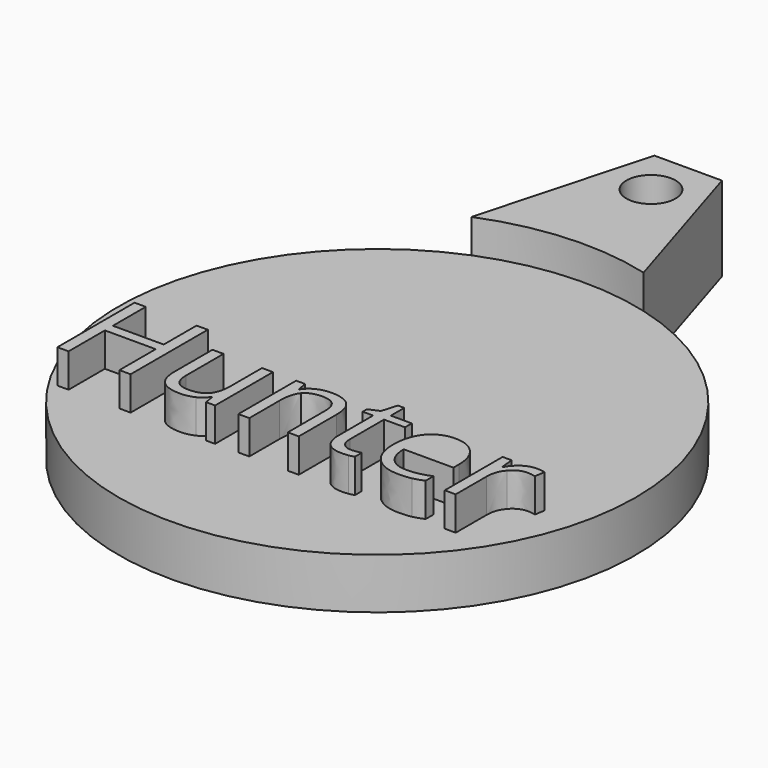
from build123d import *

# Parameters (mm, degrees)
F1_DEPTH = 12.7
F3_DEPTH = 5.08
F2_R     = 3.6923904974
F4_DEPTH = 12.701


with BuildPart() as f1:
    # F0 (on Top) → F1 (new body)
    with BuildSketch(Plane.XY):
        with BuildLine():
            Line((-54.1907071126, 81.808431102), (-61.2093408165, 56.2272694019))
            ThreePointArc((-61.2093408165, 56.2272694019), (-44.1142917545, -18.5841968693), (-36.5910920494, 57.7859390103))
            Line((-36.5910920494, 57.7859390103), (-44.0307071126, 81.808431102))
            Line((-44.0307071126, 81.808431102), (-54.1907071126, 81.808431102))
        make_face()
    extrude(amount=F1_DEPTH)

    # F2 (on face) → F3 (cut)
    with BuildSketch(Plane.XY.offset(12.7)):
        with BuildLine():
            ThreePointArc((-61.2093408165, 56.2272694019), (-68.2756243995, -12.0384858735), (-7.695419858, 20.2134059267))
            ThreePointArc((-7.695419858, 20.2134059267), (-15.7547342949, 43.9128527226), (-36.5910920494, 57.7859390103))
            ThreePointArc((-36.5910920494, 57.7859390103), (-49.0271224706, 59.0110087227), (-61.2093408165, 56.2272694019))
        make_face()
        with BuildLine():
            Line((-63.8565910506, 10.8681354841), (-62.1906724727, 10.8681354841))
            Line((-62.1906724727, 10.8681354841), (-62.1906724727, 3.817333427))
            add(Edge.make_bspline(
                [(-62.1906724727, 3.817333427), (-62.1906724727, 2.4877717429), (-61.5861820173, 1.8340970248)],
                knots=[0, 0, 0, 1, 1, 1], degree=2))
            add(Edge.make_bspline(
                [(-61.5861820173, 1.8340970248), (-60.9816915619, 1.1804223066), (-59.693381195, 1.1804223066)],
                knots=[0, 0, 0, 1, 1, 1], degree=2))
            add(Edge.make_bspline(
                [(-59.693381195, 1.1804223066), (-57.9862113, 1.1804223066), (-57.1992630956, 2.1117501211)],
                knots=[0, 0, 0, 1, 1, 1], degree=2))
            add(Edge.make_bspline(
                [(-57.1992630956, 2.1117501211), (-56.4123148912, 3.0430779355), (-56.4123148912, 5.1564146457)],
                knots=[0, 0, 0, 1, 1, 1], degree=2))
            Line((-56.4123148912, 5.1564146457), (-56.4123148912, 10.8681354841))
            Line((-56.4123148912, 10.8681354841), (-54.7654353828, 10.8681354841))
            Line((-54.7654353828, 10.8681354841), (-54.7654353828, 0))
            Line((-54.7654353828, 0), (-56.1235556711, 0))
            Line((-56.1235556711, 0), (-56.3615440393, 1.4564888138))
            Line((-56.3615440393, 1.4564888138), (-56.4503930302, 1.4564888138))
            add(Edge.make_bspline(
                [(-56.4503930302, 1.4564888138), (-56.9549283709, 0.6536747182), (-57.8529378138, 0.2268822444)],
                knots=[0, 0, 0, 1, 1, 1], degree=2))
            add(Edge.make_bspline(
                [(-57.8529378138, 0.2268822444), (-58.7509472567, -0.1999102293), (-59.9028109591, -0.1999102293)],
                knots=[0, 0, 0, 1, 1, 1], degree=2))
            add(Edge.make_bspline(
                [(-59.9028109591, -0.1999102293), (-61.8860473613, -0.1999102293), (-62.8713192059, 0.742523709)],
                knots=[0, 0, 0, 1, 1, 1], degree=2))
            add(Edge.make_bspline(
                [(-62.8713192059, 0.742523709), (-63.8565910506, 1.6849576473), (-63.8565910506, 3.7570430403)],
                knots=[0, 0, 0, 1, 1, 1], degree=2))
            Line((-63.8565910506, 3.7570430403), (-63.8565910506, 10.8681354841))
        make_face(mode=Mode.SUBTRACT)
        with BuildLine():
            Line((-42.1901300037, 0), (-43.8370095121, 0))
            Line((-43.8370095121, 0), (-43.8370095121, 7.0317629877))
            add(Edge.make_bspline(
                [(-43.8370095121, 7.0317629877), (-43.8370095121, 8.3581514935), (-44.4414999675, 9.0134128008)],
                knots=[0, 0, 0, 1, 1, 1], degree=2))
            add(Edge.make_bspline(
                [(-44.4414999675, 9.0134128008), (-45.0459904229, 9.668674108), (-46.337473968, 9.668674108)],
                knots=[0, 0, 0, 1, 1, 1], degree=2))
            add(Edge.make_bspline(
                [(-46.337473968, 9.668674108), (-48.0414706848, 9.668674108), (-48.8347652457, 8.7468658283)],
                knots=[0, 0, 0, 1, 1, 1], degree=2))
            add(Edge.make_bspline(
                [(-48.8347652457, 8.7468658283), (-49.6280598066, 7.8250575485), (-49.6280598066, 5.7022013036)],
                knots=[0, 0, 0, 1, 1, 1], degree=2))
            Line((-49.6280598066, 5.7022013036), (-49.6280598066, 0))
            Line((-49.6280598066, 0), (-51.274939315, 0))
            Line((-51.274939315, 0), (-51.274939315, 10.8681354841))
            Line((-51.274939315, 10.8681354841), (-49.9358580962, 10.8681354841))
            Line((-49.9358580962, 10.8681354841), (-49.6693111237, 9.3799148879))
            Line((-49.6693111237, 9.3799148879), (-49.5899816676, 9.3799148879))
            add(Edge.make_bspline(
                [(-49.5899816676, 9.3799148879), (-49.0822731487, 10.1827289835), (-48.1699844037, 10.6253873485)],
                knots=[0, 0, 0, 1, 1, 1], degree=2))
            add(Edge.make_bspline(
                [(-48.1699844037, 10.6253873485), (-47.2576956586, 11.0680457134), (-46.1375637387, 11.0680457134)],
                knots=[0, 0, 0, 1, 1, 1], degree=2))
            add(Edge.make_bspline(
                [(-46.1375637387, 11.0680457134), (-44.1733664059, 11.0680457134), (-43.1817482048, 10.1208520077)],
                knots=[0, 0, 0, 1, 1, 1], degree=2))
            add(Edge.make_bspline(
                [(-43.1817482048, 10.1208520077), (-42.1901300037, 9.1736583021), (-42.1901300037, 7.0888801961)],
                knots=[0, 0, 0, 1, 1, 1], degree=2))
            Line((-42.1901300037, 7.0888801961), (-42.1901300037, 0))
        make_face(mode=Mode.SUBTRACT)
        Polygon((-67.4676678917, 14.4982513947), (-67.4676678917, 0), (-69.152625539, 0), (-69.152625539, 6.8223332236), (-76.7904655712, 6.8223332236), (-76.7904655712, 0), (-78.4754232185, 0), (-78.4754232185, 14.4982513947), (-76.7904655712, 14.4982513947), (-76.7904655712, 8.3295928893), (-69.152625539, 8.3295928893), (-69.152625539, 14.4982513947), align=None, mode=Mode.SUBTRACT)
        with BuildLine():
            add(Edge.make_bspline(
                [(-25.1723750837, -0.0349049607), (-25.9498037533, -0.1999102293), (-27.0508966038, -0.1999102293)],
                knots=[0, 0, 0, 1, 1, 1], degree=2))
            add(Edge.make_bspline(
                [(-27.0508966038, -0.1999102293), (-29.4593388907, -0.1999102293), (-30.8539507287, 1.2692712974)],
                knots=[0, 0, 0, 1, 1, 1], degree=2))
            add(Edge.make_bspline(
                [(-30.8539507287, 1.2692712974), (-32.2485625667, 2.7384528242), (-32.2485625667, 5.3436321621)],
                knots=[0, 0, 0, 1, 1, 1], degree=2))
            add(Edge.make_bspline(
                [(-32.2485625667, 5.3436321621), (-32.2485625667, 7.974196926), (-30.9539058434, 9.5211213197)],
                knots=[0, 0, 0, 1, 1, 1], degree=2))
            add(Edge.make_bspline(
                [(-30.9539058434, 9.5211213197), (-29.65924912, 11.0680457134), (-27.4761024885, 11.0680457134)],
                knots=[0, 0, 0, 1, 1, 1], degree=2))
            add(Edge.make_bspline(
                [(-27.4761024885, 11.0680457134), (-25.4357488779, 11.0680457134), (-24.2458070366, 9.7242047273)],
                knots=[0, 0, 0, 1, 1, 1], degree=2))
            add(Edge.make_bspline(
                [(-24.2458070366, 9.7242047273), (-23.0558651952, 8.3803637412), (-23.0558651952, 6.1781780402)],
                knots=[0, 0, 0, 1, 1, 1], degree=2))
            Line((-23.0558651952, 6.1781780402), (-23.0558651952, 5.1373755763))
            Line((-23.0558651952, 5.1373755763), (-30.5413926717, 5.1373755763))
            add(Edge.make_bspline(
                [(-30.5413926717, 5.1373755763), (-30.4906218198, 3.2239490954), (-29.5735733074, 2.2323308943)],
                knots=[0, 0, 0, 1, 1, 1], degree=2))
            add(Edge.make_bspline(
                [(-29.5735733074, 2.2323308943), (-28.6565247951, 1.2407126932), (-26.9906062172, 1.2407126932)],
                knots=[0, 0, 0, 1, 1, 1], degree=2))
            add(Edge.make_bspline(
                [(-26.9906062172, 1.2407126932), (-25.2358386485, 1.2407126932), (-23.522322397, 1.9737168675)],
                knots=[0, 0, 0, 1, 1, 1], degree=2))
            Line((-23.522322397, 1.9737168675), (-23.522322397, 0.5045353407))
            add(Edge.make_bspline(
                [(-23.522322397, 0.5045353407), (-24.394946414, 0.130100308), (-25.1723750837, -0.0349049607)],
                knots=[0, 0, 0, 1, 1, 1], degree=2))
        make_face(mode=Mode.SUBTRACT)
        with BuildLine():
            add(Edge.make_bspline(
                [(-17.163273197, 10.4921138622), (-16.3096882495, 11.0680457134), (-15.2879248551, 11.0680457134)],
                knots=[0, 0, 0, 1, 1, 1], degree=2))
            add(Edge.make_bspline(
                [(-15.2879248551, 11.0680457134), (-14.5644402155, 11.0680457134), (-13.9900949535, 10.9474649402)],
                knots=[0, 0, 0, 1, 1, 1], degree=2))
            Line((-13.9900949535, 10.9474649402), (-14.218563787, 9.421166205))
            add(Edge.make_bspline(
                [(-14.218563787, 9.421166205), (-14.8912775746, 9.5703055825), (-15.4085056283, 9.5703055825)],
                knots=[0, 0, 0, 1, 1, 1], degree=2))
            add(Edge.make_bspline(
                [(-15.4085056283, 9.5703055825), (-16.7285477776, 9.5703055825), (-17.6646353595, 8.4993579253)],
                knots=[0, 0, 0, 1, 1, 1], degree=2))
            add(Edge.make_bspline(
                [(-17.6646353595, 8.4993579253), (-18.6007229413, 7.4284102681), (-18.6007229413, 5.8323016116)],
                knots=[0, 0, 0, 1, 1, 1], degree=2))
            Line((-18.6007229413, 5.8323016116), (-18.6007229413, 0))
            Line((-18.6007229413, 0), (-20.2476024497, 0))
            Line((-20.2476024497, 0), (-20.2476024497, 10.8681354841))
            Line((-20.2476024497, 10.8681354841), (-18.8894821615, 10.8681354841))
            Line((-18.8894821615, 10.8681354841), (-18.6990914669, 8.8563404777))
            Line((-18.6990914669, 8.8563404777), (-18.6197620108, 8.8563404777))
            add(Edge.make_bspline(
                [(-18.6197620108, 8.8563404777), (-18.0168581445, 9.916182011), (-17.163273197, 10.4921138622)],
                knots=[0, 0, 0, 1, 1, 1], degree=2))
        make_face(mode=Mode.SUBTRACT)
        with BuildLine():
            add(Edge.make_bspline(
                [(-36.5799508692, 1.6865442364), (-36.1134936674, 1.1613832371), (-35.301160037, 1.1613832371)],
                knots=[0, 0, 0, 1, 1, 1], degree=2))
            add(Edge.make_bspline(
                [(-35.301160037, 1.1613832371), (-34.8632614394, 1.1613832371), (-34.4570946242, 1.224846802)],
                knots=[0, 0, 0, 1, 1, 1], degree=2))
            add(Edge.make_bspline(
                [(-34.4570946242, 1.224846802), (-34.0509278091, 1.2883103669), (-33.8129394408, 1.3581202882)],
                knots=[0, 0, 0, 1, 1, 1], degree=2))
            Line((-33.8129394408, 1.3581202882), (-33.8129394408, 0.0983685256))
            add(Edge.make_bspline(
                [(-33.8129394408, 0.0983685256), (-34.0794864133, -0.0285586042), (-34.5998876452, -0.1142344168)],
                knots=[0, 0, 0, 1, 1, 1], degree=2))
            add(Edge.make_bspline(
                [(-34.5998876452, -0.1142344168), (-35.1202888771, -0.1999102293), (-35.5391484053, -0.1999102293)],
                knots=[0, 0, 0, 1, 1, 1], degree=2))
            add(Edge.make_bspline(
                [(-35.5391484053, -0.1999102293), (-38.6901144011, -0.1999102293), (-38.6901144011, 3.1224073916)],
                knots=[0, 0, 0, 1, 1, 1], degree=2))
            Line((-38.6901144011, 3.1224073916), (-38.6901144011, 9.589344652))
            Line((-38.6901144011, 9.589344652), (-40.2481449187, 9.589344652))
            Line((-40.2481449187, 9.589344652), (-40.2481449187, 10.3826392128))
            Line((-40.2481449187, 10.3826392128), (-38.6901144011, 11.0680457134))
            Line((-38.6901144011, 11.0680457134), (-37.998361544, 13.3876390095))
            Line((-37.998361544, 13.3876390095), (-37.046408071, 13.3876390095))
            Line((-37.046408071, 13.3876390095), (-37.046408071, 10.8681354841))
            Line((-37.046408071, 10.8681354841), (-33.8922688969, 10.8681354841))
            Line((-33.8922688969, 10.8681354841), (-33.8922688969, 9.589344652))
            Line((-33.8922688969, 9.589344652), (-37.046408071, 9.589344652))
            Line((-37.046408071, 9.589344652), (-37.046408071, 3.192217313))
            add(Edge.make_bspline(
                [(-37.046408071, 3.192217313), (-37.046408071, 2.2117052357), (-36.5799508692, 1.6865442364)],
                knots=[0, 0, 0, 1, 1, 1], degree=2))
        make_face(mode=Mode.SUBTRACT)
    extrude(amount=-F3_DEPTH, mode=Mode.SUBTRACT)

    # F2 (on face) → F4 (cut, through all)
    with BuildSketch(Plane.XY.offset(12.7)):
        with Locations((-49.1080991924, 74.8352557421)):
            Circle(F2_R)
    extrude(amount=-F4_DEPTH, mode=Mode.SUBTRACT)


solid = f1.part
